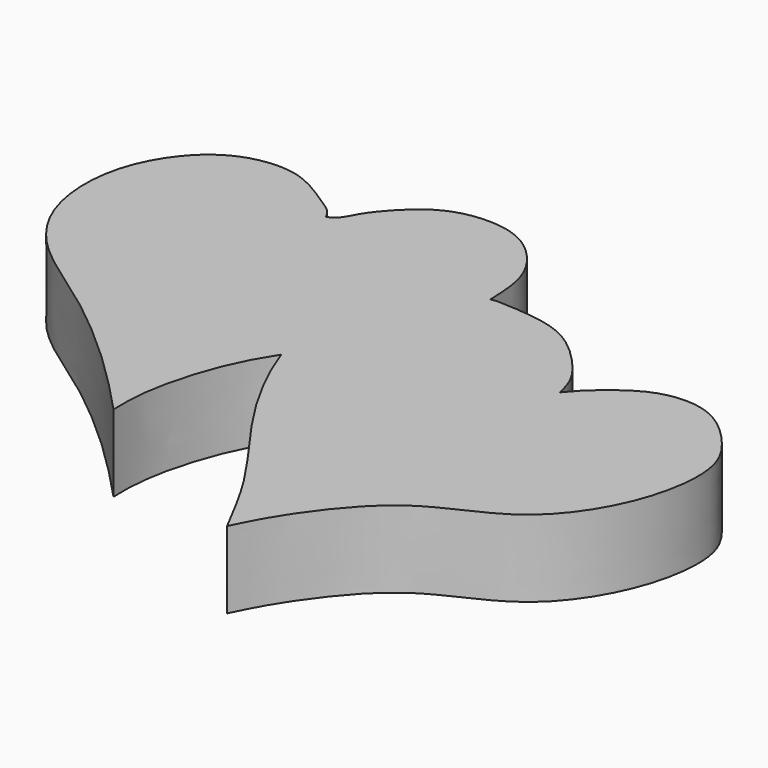
from build123d import *

# Parameters (mm, degrees)
F1_DEPTH = 5


with BuildPart() as f1:
    # F0 (on Top) → F1 (new body)
    with BuildSketch(Plane.XY):
        with BuildLine():
            add(Edge.make_bspline(
                [(13.2313603535, 34.6477143466), (13.3860128067, 34.7708971807), (13.8439374067, 34.9725596836), (14.2425290678, 35.859788071), (15.0214905173, 37.0121026477), (17.0510127549, 39.0598870249), (19.7895274194, 39.648969919), (22.7106493723, 39.1553279299), (25.2588960312, 36.2283580781), (25.3659225333, 34.0957369092), (25.4052989185, 32.801989466)],
                knots=[0, 0, 0, 0, 0.0360498115, 0.0785490342, 0.13148727, 0.2062831808, 0.2802240924, 0.3553473431, 0.4391262067, 0.5219756188, 0.5219756188, 0.5219756188, 0.5219756188], degree=3))
            add(Edge.make_bspline(
                [(13.2313603535, 34.6477143466), (13.1402728599, 34.8189528746), (12.9175224351, 35.3065772667), (11.4084634827, 36.2346146059), (9.1412974835, 37.7260343927), (5.7295862641, 37.4813754341), (3.0524103893, 35.4571489186), (1.1615901244, 31.7120821081), (1.4625638549, 26.6840203078), (4.2914046083, 22.7835240851), (9.0346293269, 19.9055489899), (14.4673897508, 15.1783795437), (16.9038964696, 12.588386363), (18.0223938078, 11.3994209096)],
                knots=[0, 0, 0, 0, 0.0385138885, 0.1005209553, 0.1790644329, 0.2641100934, 0.3493936689, 0.445150389, 0.5495364555, 0.6511858115, 0.763762205, 0.8917299697, 1, 1, 1, 1], degree=3))
            add(Edge.make_bspline(
                [(20.9074965663, 21.4320479036), (20.4397909378, 20.7160128412), (19.1536009476, 18.4687205649), (17.9689395454, 14.1689344855), (18.0072581502, 12.1970093238), (18.0223938078, 11.3994209096)],
                knots=[0.7723386621, 0.7723386621, 0.7723386621, 0.7723386621, 0.8240831059, 0.9268721562, 1, 1, 1, 1], degree=3))
            add(Edge.make_bspline(
                [(25.4052989185, 32.801989466), (24.8507986109, 32.681806987), (22.8644241962, 31.9359697898), (20.3100342024, 30.2030018873), (19.713009884, 25.6821200924), (20.4971962661, 22.5993922561), (20.9074965663, 21.4320479036)],
                knots=[0.331582581, 0.331582581, 0.331582581, 0.331582581, 0.4019863947, 0.4781324085, 0.5772752719, 0.6416269142, 0.6416269142, 0.6416269142, 0.6416269142], degree=3))
        make_face()
        with BuildLine():
            add(Edge.make_bspline(
                [(34.5553867519, 27.0291864872), (34.4367400807, 27.5149384874), (34.1641372564, 28.631003235), (32.3969234221, 30.742971129), (29.9629211618, 32.6858599115), (26.2923004651, 32.8345684614), (25.7372004767, 32.8739258589), (25.4052989185, 32.801989466)],
                knots=[0, 0, 0, 0, 0.0556600677, 0.1278846806, 0.2075993831, 0.2894416929, 0.331582581, 0.331582581, 0.331582581, 0.331582581], degree=3))
            add(Edge.make_bspline(
                [(25.4052989185, 32.801989466), (25.4537991947, 31.2084681692), (25.5082397021, 27.3537455984), (22.7847524203, 24.0563409182), (21.3448835149, 22.1016665096), (20.9074965663, 21.4320479036)],
                knots=[0.5219756188, 0.5219756188, 0.5219756188, 0.5219756188, 0.6240220448, 0.7239485146, 0.7723386621, 0.7723386621, 0.7723386621, 0.7723386621], degree=3))
            add(Edge.make_bspline(
                [(20.9074965663, 21.4320479036), (21.2105185867, 20.5699207153), (22.3574274988, 17.8918362365), (24.6707903298, 14.1288456629), (28.0920668692, 9.7054547257), (29.7283607779, 6.5488655612), (30.5377673358, 4.9874321558)],
                knots=[0.6416269142, 0.6416269142, 0.6416269142, 0.6416269142, 0.6891529936, 0.7936878154, 0.897945941, 1, 1, 1, 1], degree=3))
            add(Edge.make_bspline(
                [(34.5553867519, 27.0291864872), (34.8203735388, 27.3505897537), (35.4573813145, 28.1232183902), (37.6385167055, 29.8654462886), (39.7677849185, 30.4488114234), (42.2795978468, 30.1070232175), (44.7532359489, 27.6792727197), (46.073530962, 25.2246332657), (45.4756259587, 20.2960969653), (42.2542319429, 15.2299568084), (37.8040590236, 13.503060576), (34.8575800501, 11.6236184128), (31.8782410275, 7.7182706429), (30.9492084702, 5.8256278562), (30.5377673358, 4.9874321558)],
                knots=[0, 0, 0, 0, 0.0539345536, 0.1296545026, 0.1973514734, 0.2679837797, 0.3512354169, 0.4260917368, 0.525421559, 0.636538444, 0.7342670699, 0.8200906036, 0.9203234316, 1, 1, 1, 1], degree=3))
        make_face()
        with BuildLine():
            add(Edge.make_bspline(
                [(25.4052989185, 32.801989466), (25.4537991947, 31.2084681692), (25.5082397021, 27.3537455984), (22.7847524203, 24.0563409182), (21.3448835149, 22.1016665096), (20.9074965663, 21.4320479036)],
                knots=[0.5219756188, 0.5219756188, 0.5219756188, 0.5219756188, 0.6240220448, 0.7239485146, 0.7723386621, 0.7723386621, 0.7723386621, 0.7723386621], degree=3))
            add(Edge.make_bspline(
                [(25.4052989185, 32.801989466), (24.8507986109, 32.681806987), (22.8644241962, 31.9359697898), (20.3100342024, 30.2030018873), (19.713009884, 25.6821200924), (20.4971962661, 22.5993922561), (20.9074965663, 21.4320479036)],
                knots=[0.331582581, 0.331582581, 0.331582581, 0.331582581, 0.4019863947, 0.4781324085, 0.5772752719, 0.6416269142, 0.6416269142, 0.6416269142, 0.6416269142], degree=3))
        make_face()
    extrude(amount=F1_DEPTH)


solid = f1.part
